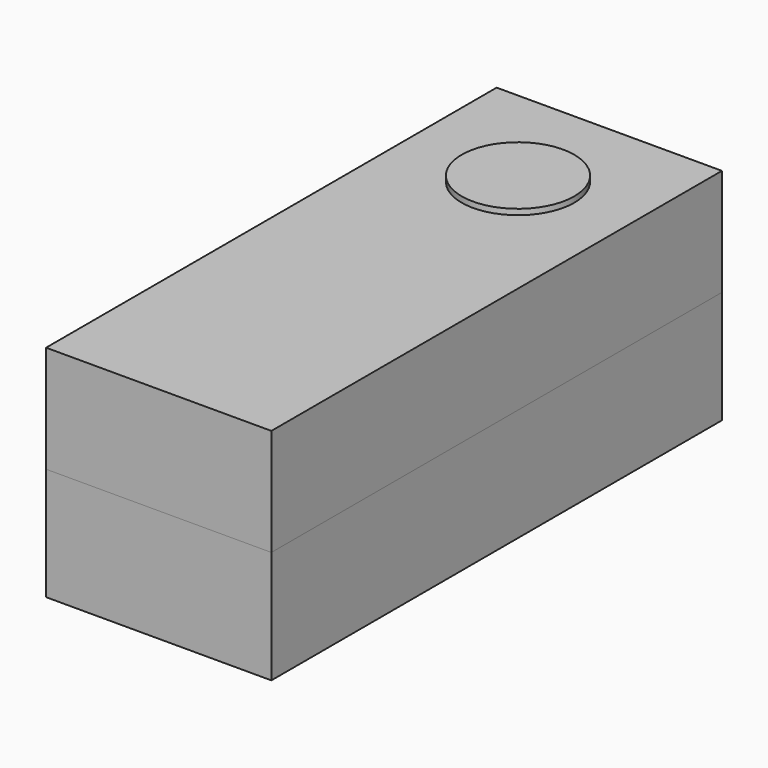
from build123d import *

# Parameters (mm, degrees)
F0_W     = 50.8
F0_H     = 127
F1_DEPTH = 25.4
F2_R     = 12.7
F3_DEPTH = 25.4
F4_W     = 50.8
F4_H     = 127
F4_R     = 12.7
F5_DEPTH = 24.13


with BuildPart() as f1:
    # F0 (on Top) → F1 (new body)
    with BuildSketch(Plane.XY):
        Rectangle(F0_W, F0_H)
    extrude(amount=F1_DEPTH)

    # F2 (on face) → F3 (join)
    with BuildSketch(Plane.XY.offset(25.4)):
        with Locations((0, 37.768841)):
            Circle(F2_R)
    extrude(amount=F3_DEPTH)


with BuildPart() as f5:
    # F4 (on face) → F5 (new body)
    with BuildSketch(Plane.XY.offset(25.4)):
        Rectangle(F4_W, F4_H)
        with Locations((0, 37.768841)):
            Circle(F4_R, mode=Mode.SUBTRACT)
    extrude(amount=F5_DEPTH)


solid = Compound([f1.part, f5.part])
